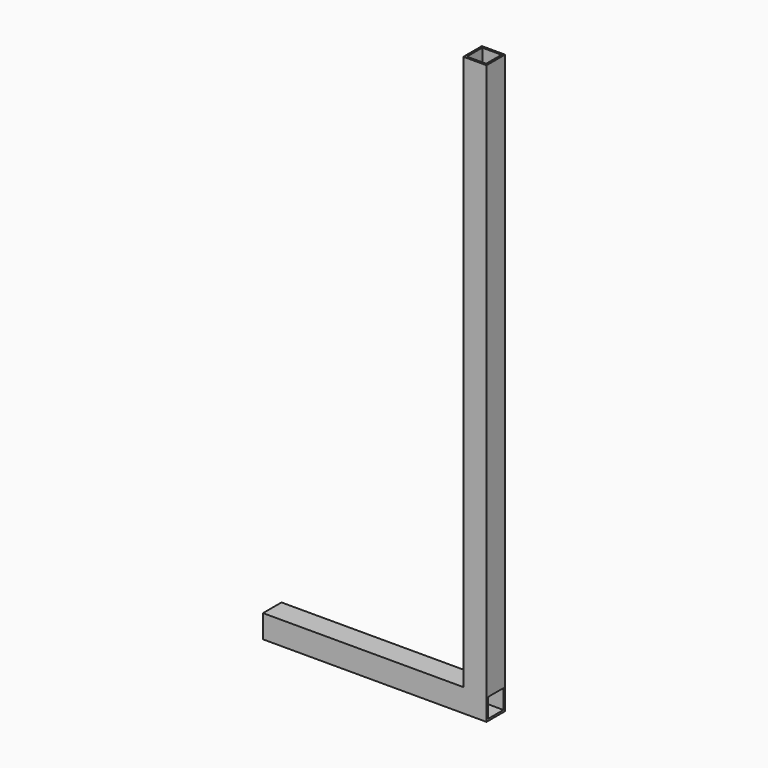
from build123d import *

# Parameters (mm, degrees)
F0_W     = 38.1
F0_H     = 38.1
F0_W_2   = 31.75
F0_H_2   = 31.75
F1_DEPTH = 368.3
F2_W     = 38.1
F2_H     = 38.1
F2_W_2   = 31.75
F2_H_2   = 31.75
F3_DEPTH = 914.4


with BuildPart() as f1:
    # F0 (on Right) → F1 (new body)
    with BuildSketch(Plane.YZ):
        Rectangle(F0_W, F0_H)
        Rectangle(F0_W_2, F0_H_2, mode=Mode.SUBTRACT)
    extrude(amount=-F1_DEPTH)

    # F2 (on face) → F3 (join)
    with BuildSketch(Plane.XY.offset(19.05)):
        with Locations((-19.05, 0)):
            Rectangle(F2_W, F2_H)
        with Locations((-19.05, 0)):
            Rectangle(F2_W_2, F2_H_2, mode=Mode.SUBTRACT)
    extrude(amount=F3_DEPTH)


solid = f1.part
